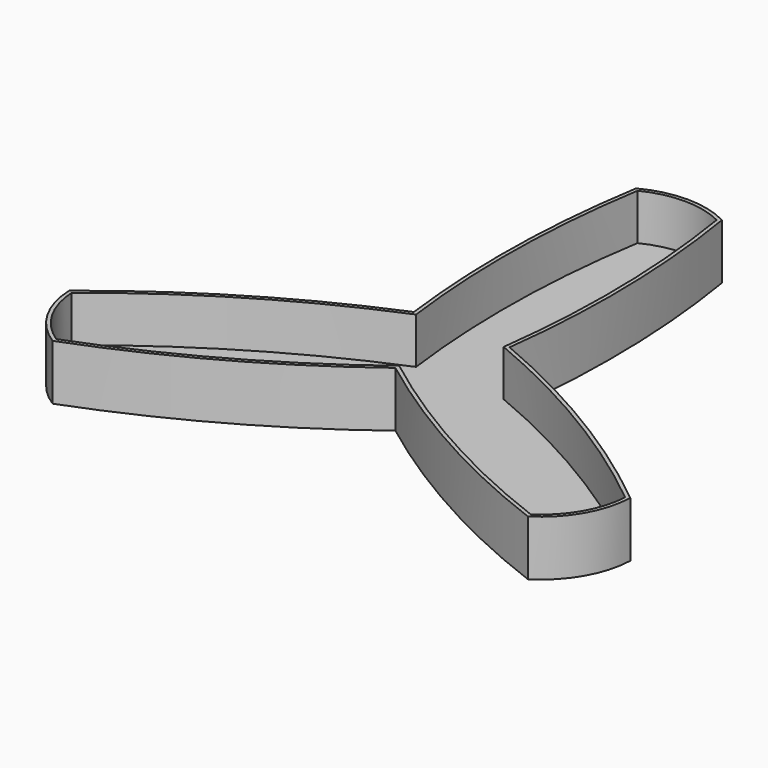
from build123d import *

# Parameters (mm, degrees)
F1_DEPTH = 10
F3_DEPTH = 10
F0_R     = 7.5
F4_DEPTH = 2


with BuildPart() as f1:
    # F0 (on Top) → F1 (new body)
    with BuildSketch(Plane.XY):
        with BuildLine():
            ThreePointArc((60.856366, -24.384369), (36.710284, -7.376819), (10.3731, 5.988912))
            ThreePointArc((10.3731, 5.988912), (11.966629, 35.480448), (9.3107, 64.895344))
            ThreePointArc((9.3107, 64.895344), (0, 67.2), (-9.3107, 64.895344))
            ThreePointArc((-9.3107, 64.895344), (-11.966629, 35.480448), (-10.3731, 5.988912))
            ThreePointArc((-10.3731, 5.988912), (-36.710284, -7.376819), (-60.856366, -24.384369))
            ThreePointArc((-60.856366, -24.384369), (-58.196907, -33.6), (-51.545666, -40.510974))
            ThreePointArc((-51.545666, -40.510974), (-24.743655, -28.103629), (0, -11.977824))
            ThreePointArc((0, -11.977824), (24.743655, -28.103629), (51.545666, -40.510974))
            ThreePointArc((51.545666, -40.510974), (58.196907, -33.6), (60.856366, -24.384369))
        make_face()
        with BuildLine():
            ThreePointArc((-7.5, 63.559028), (0, 65.2), (7.5, 63.559028))
            ThreePointArc((7.5, 63.559028), (9.985947, 34.169463), (8.191847, 4.729565))
            ThreePointArc((8.191847, 4.729565), (34.584597, -8.436648), (58.793733, -25.284323))
            ThreePointArc((58.793733, -25.284323), (56.464856, -32.6), (51.293733, -38.274704))
            ThreePointArc((51.293733, -38.274704), (24.59865, -25.732816), (0, -9.45913))
            ThreePointArc((0, -9.45913), (-24.59865, -25.732816), (-51.293733, -38.274704))
            ThreePointArc((-51.293733, -38.274704), (-56.464856, -32.6), (-58.793733, -25.284323))
            ThreePointArc((-58.793733, -25.284323), (-34.584597, -8.436648), (-8.191847, 4.729565))
            ThreePointArc((-8.191847, 4.729565), (-9.985947, 34.169463), (-7.5, 63.559028))
        make_face(mode=Mode.SUBTRACT)
    extrude(amount=F1_DEPTH)

    # F2 (on face) → F3 (cut)
    with BuildSketch(Plane.XY.offset(10)):
        with BuildLine():
            ThreePointArc((-8.585798, 64.368588), (-11.175251, 34.960479), (-9.502098, 5.486039))
            ThreePointArc((-9.502098, 5.486039), (-35.864289, -7.802188), (-60.037731, -24.748774))
            ThreePointArc((-60.037731, -24.748774), (-57.504087, -33.2), (-51.451933, -39.619813))
            ThreePointArc((-51.451933, -39.619813), (-24.689038, -27.158291), (0, -10.972078))
            ThreePointArc((0, -10.972078), (24.689038, -27.158291), (51.451933, -39.619813))
            ThreePointArc((51.451933, -39.619813), (57.504087, -33.2), (60.037731, -24.748774))
            ThreePointArc((60.037731, -24.748774), (35.864289, -7.802188), (9.502098, 5.486039))
            ThreePointArc((9.502098, 5.486039), (11.175251, 34.960479), (8.585798, 64.368588))
            ThreePointArc((8.585798, 64.368588), (0, 66.4), (-8.585798, 64.368588))
        make_face()
        with BuildLine():
            ThreePointArc((7.5, 63.559028), (9.985947, 34.169463), (8.191847, 4.729565))
            ThreePointArc((8.191847, 4.729565), (34.584597, -8.436648), (58.793733, -25.284323))
            ThreePointArc((58.793733, -25.284323), (56.464856, -32.6), (51.293733, -38.274704))
            ThreePointArc((51.293733, -38.274704), (24.59865, -25.732816), (0, -9.45913))
            ThreePointArc((0, -9.45913), (-24.59865, -25.732816), (-51.293733, -38.274704))
            ThreePointArc((-51.293733, -38.274704), (-56.464856, -32.6), (-58.793733, -25.284323))
            ThreePointArc((-58.793733, -25.284323), (-34.584597, -8.436648), (-8.191847, 4.729565))
            ThreePointArc((-8.191847, 4.729565), (-9.985947, 34.169463), (-7.5, 63.559028))
            ThreePointArc((-7.5, 63.559028), (0, 65.2), (7.5, 63.559028))
        make_face(mode=Mode.SUBTRACT)
    extrude(amount=-F3_DEPTH, mode=Mode.SUBTRACT)

    # F0 (on Top) → F4 (join)
    with BuildSketch(Plane.XY):
        with BuildLine():
            ThreePointArc((60.856366, -24.384369), (36.710284, -7.376819), (10.3731, 5.988912))
            ThreePointArc((10.3731, 5.988912), (11.966629, 35.480448), (9.3107, 64.895344))
            ThreePointArc((9.3107, 64.895344), (0, 67.2), (-9.3107, 64.895344))
            ThreePointArc((-9.3107, 64.895344), (-11.966629, 35.480448), (-10.3731, 5.988912))
            ThreePointArc((-10.3731, 5.988912), (-36.710284, -7.376819), (-60.856366, -24.384369))
            ThreePointArc((-60.856366, -24.384369), (-58.196907, -33.6), (-51.545666, -40.510974))
            ThreePointArc((-51.545666, -40.510974), (-24.743655, -28.103629), (0, -11.977824))
            ThreePointArc((0, -11.977824), (24.743655, -28.103629), (51.545666, -40.510974))
            ThreePointArc((51.545666, -40.510974), (58.196907, -33.6), (60.856366, -24.384369))
        make_face()
        with BuildLine():
            ThreePointArc((-7.5, 63.559028), (0, 65.2), (7.5, 63.559028))
            ThreePointArc((7.5, 63.559028), (9.985947, 34.169463), (8.191847, 4.729565))
            ThreePointArc((8.191847, 4.729565), (34.584597, -8.436648), (58.793733, -25.284323))
            ThreePointArc((58.793733, -25.284323), (56.464856, -32.6), (51.293733, -38.274704))
            ThreePointArc((51.293733, -38.274704), (24.59865, -25.732816), (0, -9.45913))
            ThreePointArc((0, -9.45913), (-24.59865, -25.732816), (-51.293733, -38.274704))
            ThreePointArc((-51.293733, -38.274704), (-56.464856, -32.6), (-58.793733, -25.284323))
            ThreePointArc((-58.793733, -25.284323), (-34.584597, -8.436648), (-8.191847, 4.729565))
            ThreePointArc((-8.191847, 4.729565), (-9.985947, 34.169463), (-7.5, 63.559028))
        make_face(mode=Mode.SUBTRACT)
        with BuildLine():
            ThreePointArc((8.191847, 4.729565), (9.985947, 34.169463), (7.5, 63.559028))
            ThreePointArc((7.5, 63.559028), (0, 65.2), (-7.5, 63.559028))
            ThreePointArc((-7.5, 63.559028), (-9.985947, 34.169463), (-8.191847, 4.729565))
            ThreePointArc((-8.191847, 4.729565), (-34.584597, -8.436648), (-58.793733, -25.284323))
            ThreePointArc((-58.793733, -25.284323), (-56.464856, -32.6), (-51.293733, -38.274704))
            ThreePointArc((-51.293733, -38.274704), (-24.59865, -25.732816), (0, -9.45913))
            ThreePointArc((0, -9.45913), (24.59865, -25.732816), (51.293733, -38.274704))
            ThreePointArc((51.293733, -38.274704), (56.464856, -32.6), (58.793733, -25.284323))
            ThreePointArc((58.793733, -25.284323), (34.584597, -8.436648), (8.191847, 4.729565))
        make_face()
        Circle(F0_R, mode=Mode.SUBTRACT)
        Circle(F0_R)
    extrude(amount=-F4_DEPTH)


solid = f1.part
